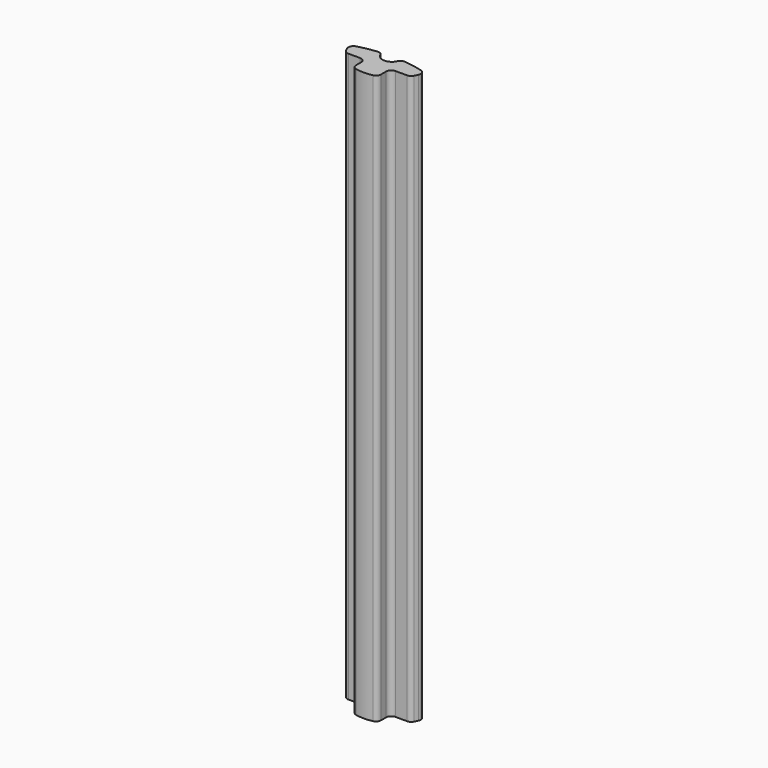
from build123d import *

# Parameters (mm, degrees)
CYLINDER002_R     = 0.9
CYLINDER002_DEPTH = 55
BOX008_W          = 2.42
BOX008_H          = 1.69
BOX008_DEPTH      = 55
BOX007_W          = 2.42
BOX007_H          = 1.69
BOX007_DEPTH      = 55
EXTRUDE011_DEPTH  = 55
FILLET011_R       = 0.5


with BuildPart() as cilindro001:
    # Cylinder002 → Cylinder002 (new body)
    with BuildSketch(Plane(origin=(0, 12.21, 0), x_dir=(1, 0, 0), z_dir=(0, 0, 1))):
        Circle(CYLINDER002_R)
    extrude(amount=CYLINDER002_DEPTH)


with BuildPart() as cubo_der001:
    # Box008 → Box008 (new body)
    with BuildSketch(Plane(origin=(1.21, 8.809483, 0), x_dir=(1, 0, 0), z_dir=(0, 0, 1))):
        with Locations((1.21, 0.845)):
            Rectangle(BOX008_W, BOX008_H)
    extrude(amount=BOX008_DEPTH)


with BuildPart() as obj1:
    # Box007 → Box007 (new body)
    with BuildSketch(Plane(origin=(-3.63, 8.809483, 0), x_dir=(1, 0, 0), z_dir=(0, 0, 1))):
        with Locations((1.21, 0.845)):
            Rectangle(BOX007_W, BOX007_H)
    extrude(amount=BOX007_DEPTH)


with BuildPart() as obj2:
    # Sketch012 → Extrude011 (new body)
    with BuildSketch(Plane.XY):
        with BuildLine():
            ThreePointArc((-3.632024, 11.657294), (0, 8.809483), (3.632024, 11.657294))
            ThreePointArc((3.632024, 11.657294), (0, 12.21), (-3.632024, 11.657294))
        make_face()
    extrude(amount=EXTRUDE011_DEPTH)

    # Cut007: cut obj1
    add(obj1.part, mode=Mode.SUBTRACT)

    # Cut008: cut Cubo der001
    add(cubo_der001.part, mode=Mode.SUBTRACT)

    # Cut009: cut Cilindro001
    add(cilindro001.part, mode=Mode.SUBTRACT)

    # Fillet011
    fillet011_edges = [obj2.edges().sort_by_distance(p)[0] for p in [
        (-3.128114, 10.499483, 27.5),
        (-3.632024, 11.657294, 27.5),
        (-1.21, 10.499483, 27.5),
        (-0.899389, 12.17683, 27.5),
        (3.128114, 10.499483, 27.5),
        (1.21, 10.499483, 27.5),
        (1.21, 9.010627, 27.5),
        (-1.21, 9.010627, 27.5),
        (0.899389, 12.17683, 27.5),
        (3.632024, 11.657294, 27.5),
    ]]
    fillet(fillet011_edges, radius=FILLET011_R)


solid = obj2.part
